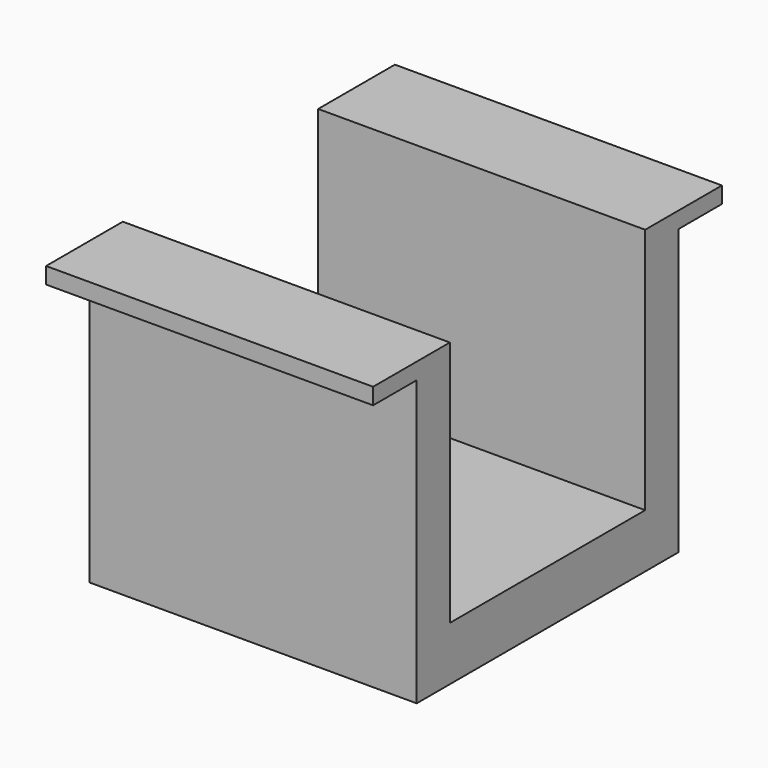
from build123d import *

# Parameters (mm, degrees)
F0_W     = 60
F0_H     = 44.8
F1_DEPTH = 9.9
F0_H_2   = 7.6
F2_DEPTH = 55.2
F3_START = 52.2
F0_H_3   = 10
F0_R     = 1.7
F3_DEPTH = 3
F4_START = 52.2
F4_DEPTH = 0.3
F5_START = 54.7
F5_DEPTH = 0.5


with BuildPart() as f1:
    # F0 (on Top) → F1 (new body)
    with BuildSketch(Plane.XY):
        Rectangle(F0_W, F0_H)
    extrude(amount=F1_DEPTH)

    # F0 (on Top) → F2 (join)
    with BuildSketch(Plane.XY):
        with Locations((0, -26.2)):
            Rectangle(F0_W, F0_H_2)
        with Locations((0, 26.2)):
            Rectangle(F0_W, F0_H_2)
    extrude(amount=F2_DEPTH)

    # F0 (on Top) → F3 (join)
    with BuildSketch(Plane.XY.offset(F3_START)):
        with Locations((0, 35)):
            Rectangle(F0_W, F0_H_3)
        with Locations((-15, 35)):
            Circle(F0_R, mode=Mode.SUBTRACT)
        with Locations((15, 35)):
            Circle(F0_R, mode=Mode.SUBTRACT)
        with Locations((0, -35)):
            Rectangle(F0_W, F0_H_3)
        with Locations((-15, -35)):
            Circle(F0_R, mode=Mode.SUBTRACT)
        with Locations((15, -35)):
            Circle(F0_R, mode=Mode.SUBTRACT)
    extrude(amount=F3_DEPTH)

    # F0 (on Top) → F4 (join)
    with BuildSketch(Plane.XY.offset(F4_START)):
        with Locations((-15, 35)):
            Circle(F0_R)
        with Locations((15, 35)):
            Circle(F0_R)
        with Locations((-15, -35)):
            Circle(F0_R)
        with Locations((15, -35)):
            Circle(F0_R)
    extrude(amount=F4_DEPTH)

    # F0 (on Top) → F5 (join)
    with BuildSketch(Plane.XY.offset(F5_START)):
        with Locations((-15, 35)):
            Circle(F0_R)
        with Locations((15, 35)):
            Circle(F0_R)
        with Locations((-15, -35)):
            Circle(F0_R)
        with Locations((15, -35)):
            Circle(F0_R)
    extrude(amount=F5_DEPTH)


solid = f1.part
